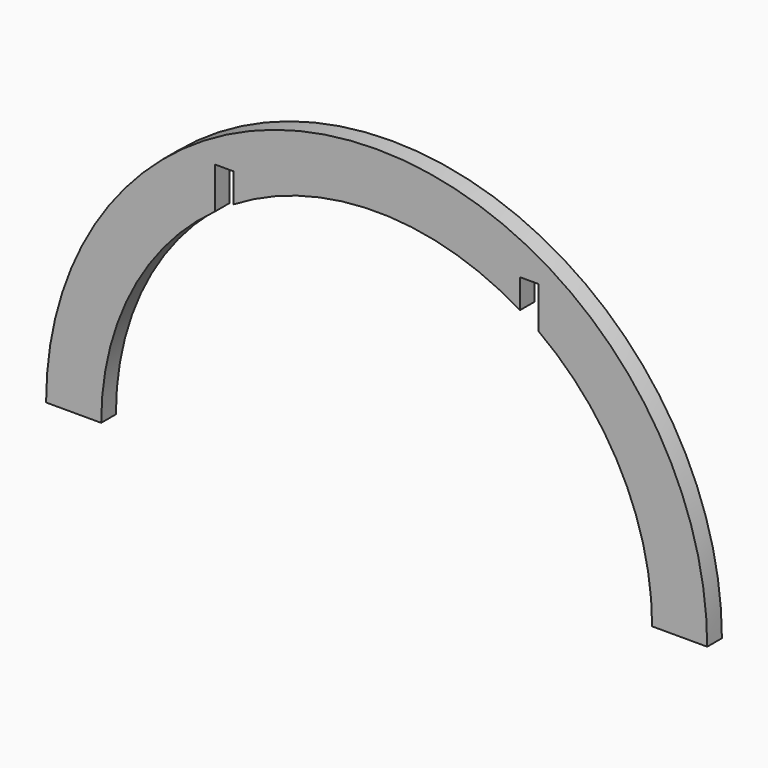
from build123d import *

# Parameters (mm, degrees)
F1_DEPTH = 6.35
F3_W     = 6.35
F3_H     = 6.35
F4_DEPTH = 30.48


with BuildPart() as f1:
    # F0 (on Front) → F1 (new body)
    with BuildSketch(Plane.XZ):
        with BuildLine():
            Line((95.25, 0), (114.3, 0))
            ThreePointArc((114.3, 0), (0, 114.3), (-114.3, 0))
            Line((-114.3, 0), (-95.25, 0))
            ThreePointArc((-95.25, 0), (0, 95.25), (95.25, 0))
        make_face()
    extrude(amount=F1_DEPTH)

    # F3 (on offset) → F4 (cut)
    with BuildSketch(Plane.XY.offset(60.96)):
        with Locations((-52.705, -3.175)):
            Rectangle(F3_W, F3_H)
        with Locations((52.705, -3.175)):
            Rectangle(F3_W, F3_H)
    extrude(amount=F4_DEPTH, mode=Mode.SUBTRACT)


solid = f1.part
